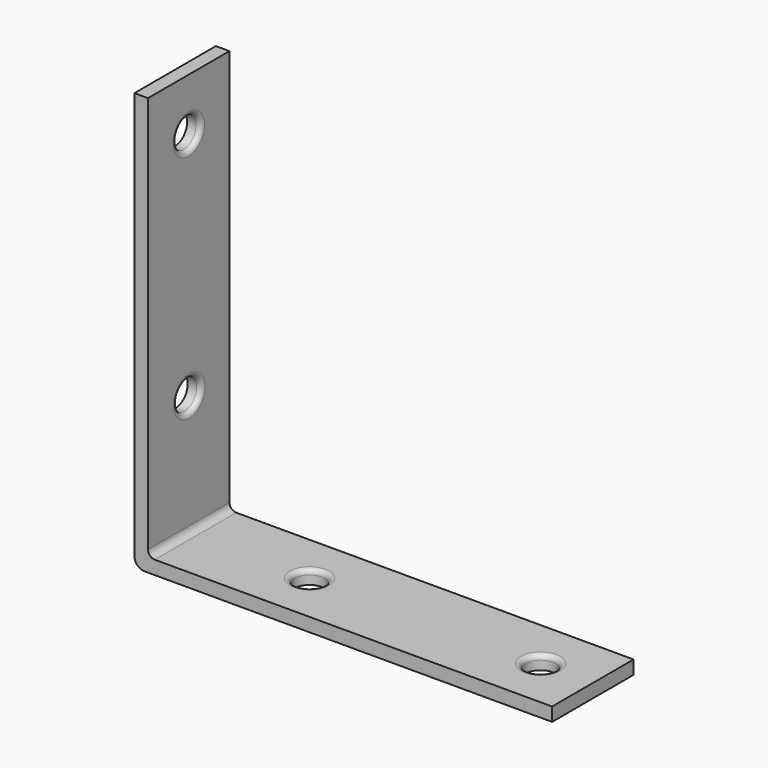
from build123d import *

# Parameters (mm, degrees)
SKETCH_W        = 61.5
SKETCH_H        = 15
PAD_DEPTH       = 2
SKETCH001_W     = 2
SKETCH001_H     = 15
PAD001_DEPTH    = 59.5
FILLET_R        = 1.5
FILLET001_R     = 1
SKETCH002_R     = 2.2
POCKET_DEPTH    = 2.001
FILLET002_R     = 0.7
SKETCH003_R     = 2.2
POCKET001_DEPTH = 2.001
FILLET003_R     = 0.7


with BuildPart() as part:
    # Sketch → Pad (new body)
    with BuildSketch(Plane.XY):
        Rectangle(SKETCH_W, SKETCH_H)
    extrude(amount=PAD_DEPTH)

    # Sketch001 (on Face6 of Pad) → Pad001 (join)
    with BuildSketch(Plane.XY.offset(2)):
        with Locations((-29.75, 0)):
            Rectangle(SKETCH001_W, SKETCH001_H)
    extrude(amount=PAD001_DEPTH)

    # Fillet
    fillet_edges = [part.edges().sort_by_distance(p)[0] for p in [
        (-30.75, 0, 0),
    ]]
    fillet(fillet_edges, radius=FILLET_R)

    # Fillet001
    fillet001_edges = [part.edges().sort_by_distance(p)[0] for p in [
        (-28.75, 0, 2),
    ]]
    fillet(fillet001_edges, radius=FILLET001_R)

    # Sketch002 (on Face2 of Fillet001) → Pocket (cut, through all)
    with BuildSketch(Plane.XY.offset(2)):
        with Locations((23.05, 0)):
            Circle(SKETCH002_R)
        with Locations((-10.95, 0)):
            Circle(SKETCH002_R)
    extrude(amount=-POCKET_DEPTH, mode=Mode.SUBTRACT)

    # Fillet002
    fillet002_edges = [part.edges().sort_by_distance(p)[0] for p in [
        (20.85, 0, 2),
        (-13.15, 0, 2),
    ]]
    fillet(fillet002_edges, radius=FILLET002_R)

    # Sketch003 (on Face14 of Fillet002) → Pocket001 (cut, through all)
    with BuildSketch(Plane.YZ.offset(-28.75)):
        with Locations((0, 53.8)):
            Circle(SKETCH003_R)
        with Locations((0.10123, 19.8)):
            Circle(SKETCH003_R)
    extrude(amount=-POCKET001_DEPTH, mode=Mode.SUBTRACT)

    # Fillet003
    fillet003_edges = [part.edges().sort_by_distance(p)[0] for p in [
        (-28.75, -2.2, 53.8),
        (-28.75, -2.09877, 19.8),
    ]]
    fillet(fillet003_edges, radius=FILLET003_R)


solid = part.part
